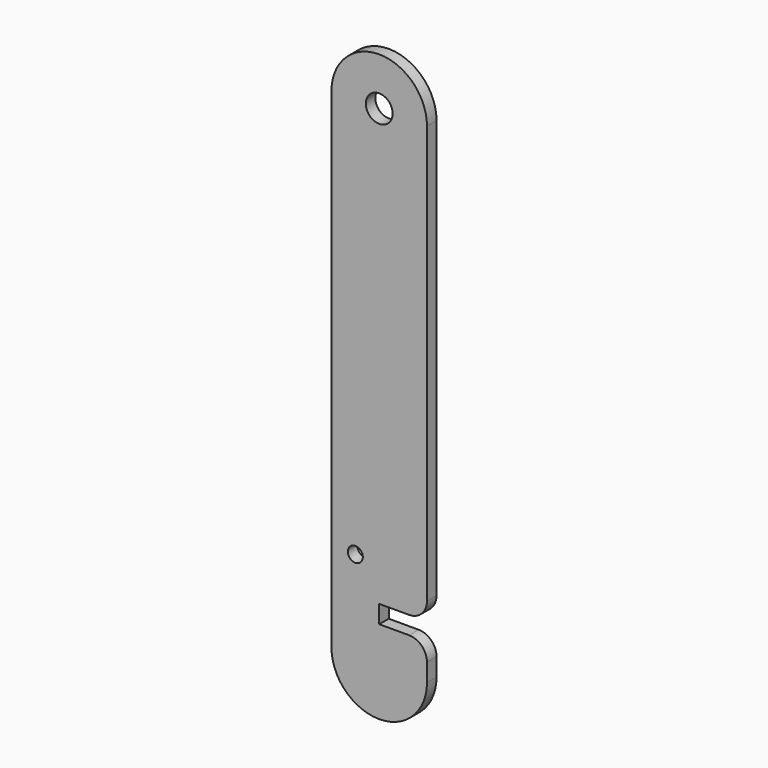
from build123d import *

# Parameters (mm, degrees)
F1_DEPTH = 3.175
F3_D     = 7.1374
F5_D     = 3.96875
F6_R     = 4.7752


with BuildPart() as f1:
    # F0 (on Front) → F1 (new body)
    with BuildSketch(Plane.XZ):
        with BuildLine():
            Line((12.7, -50.8), (12.7, 65.0875))
            ThreePointArc((12.7, 65.0875), (0, 77.7875), (-12.7, 65.0875))
            Line((-12.7, 65.0875), (-12.7, -65.0875))
            ThreePointArc((-12.7, -65.0875), (0, -77.7875), (12.7, -65.0875))
            Line((12.7, -65.0875), (12.7, -55.5625))
            Line((12.7, -55.5625), (0, -55.5625))
            Line((0, -55.5625), (0, -50.8))
            Line((0, -50.8), (12.7, -50.8))
        make_face()
    extrude(amount=F1_DEPTH)

    # F3 (through all)
    with Locations(Plane.XZ.offset(3.175)):
        with Locations((0, 65.0875)):
            Hole(F3_D / 2)

    # F5 (through all)
    with Locations(Plane.XZ.offset(3.175)):
        with Locations((-6.35, -41.275)):
            Hole(F5_D / 2)

    # F6
    f6_edges = [f1.edges().sort_by_distance(p)[0] for p in [
        (12.7, -1.5875, -55.5625),
        (12.7, -1.5875, -50.8),
    ]]
    fillet(f6_edges, radius=F6_R)


solid = f1.part
